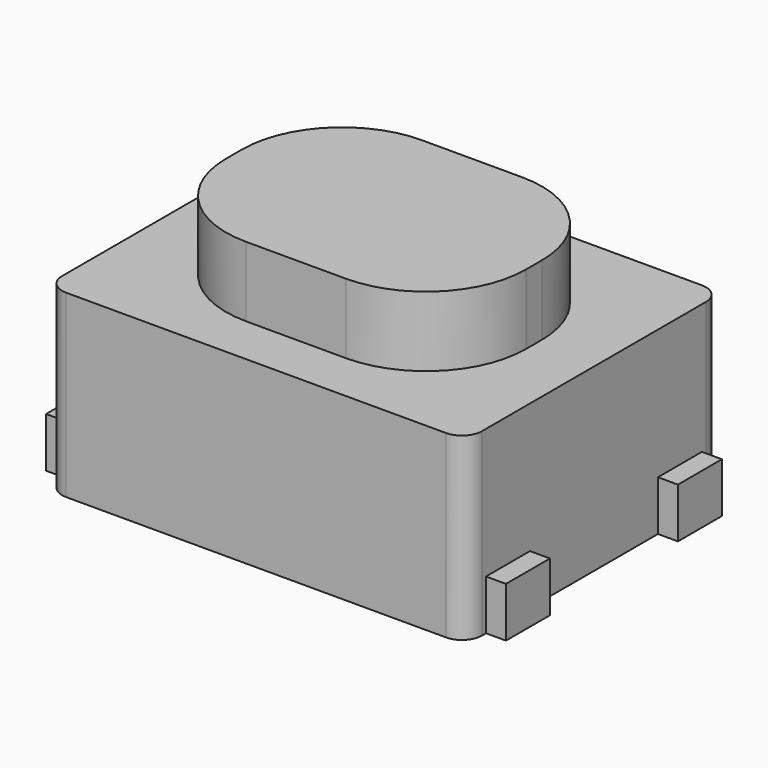
from build123d import *

# Parameters (mm, degrees)
SKETCH_W                = 4.2
SKETCH_H                = 3.2
PAD_DEPTH               = 1.8
FILLET_R                = 0.2
FILLET001_R             = 0.2
FILLET002_R             = 0.2
FILLET003_R             = 0.2
SKETCH001_W             = 3
SKETCH001_H             = 2.2
PAD001_DEPTH            = 0.7
FILLET004_R             = 1
SKETCH002_W             = 0.55
SKETCH002_H             = 0.5
PAD002_DEPTH            = 0.2
SKETCH002_MIRRORED_2_W  = 0.55
SKETCH002_MIRRORED_2_H  = 0.5
PAD002_MIRRORED_2_DEPTH = 0.2


with BuildPart() as part:
    # Sketch → Pad (new body)
    with BuildSketch(Plane.XY):
        Rectangle(SKETCH_W, SKETCH_H)
    extrude(amount=PAD_DEPTH)

    # Fillet
    fillet_edges = [part.edges().sort_by_distance(p)[0] for p in [
        (-2.1, -1.6, 0.9),
    ]]
    fillet(fillet_edges, radius=FILLET_R)

    # Fillet001
    fillet001_edges = [part.edges().sort_by_distance(p)[0] for p in [
        (2.1, -1.6, 0.9),
    ]]
    fillet(fillet001_edges, radius=FILLET001_R)

    # Fillet002
    fillet002_edges = [part.edges().sort_by_distance(p)[0] for p in [
        (-2.1, 1.6, 0.9),
    ]]
    fillet(fillet002_edges, radius=FILLET002_R)

    # Fillet003
    fillet003_edges = [part.edges().sort_by_distance(p)[0] for p in [
        (2.1, 1.6, 0.9),
    ]]
    fillet(fillet003_edges, radius=FILLET003_R)

    # Sketch001 (on Face6 of Pad) → Pad001 (join)
    with BuildSketch(Plane.XY.offset(1.8)):
        Rectangle(SKETCH001_W, SKETCH001_H)
    extrude(amount=PAD001_DEPTH)

    # Fillet004
    fillet004_edges = [part.edges().sort_by_distance(p)[0] for p in [
        (1.5, -1.1, 2.15),
        (-1.5, -1.1, 2.15),
        (-1.5, 1.1, 2.15),
        (1.5, 1.1, 2.15),
    ]]
    fillet(fillet004_edges, radius=FILLET004_R)

    # Sketch002 (on Face14 of Fillet004) → Pad002 (join)
    with BuildSketch(Plane(origin=(-2.1, 0, 0), x_dir=(0, -1, 0), z_dir=(-1, 0, 0))):
        with Locations((-1.075, 0.25)):
            Rectangle(SKETCH002_W, SKETCH002_H)
    pad002 = extrude(amount=PAD002_DEPTH)

    # Sketch002 Mirrored 2 → Pad002 Mirrored 2 (add)
    with BuildSketch(Plane.YZ.offset(-2.1)):
        with Locations((-1.075, 0.25)):
            Rectangle(SKETCH002_MIRRORED_2_W, SKETCH002_MIRRORED_2_H)
    pad002_mirrored_2 = extrude(amount=-PAD002_MIRRORED_2_DEPTH)

    # Mirrored001: Pad002, Pad002 Mirrored 2 across YZ
    add(pad002.mirror(Plane.YZ))
    add(pad002_mirrored_2.mirror(Plane.YZ))


solid = part.part
